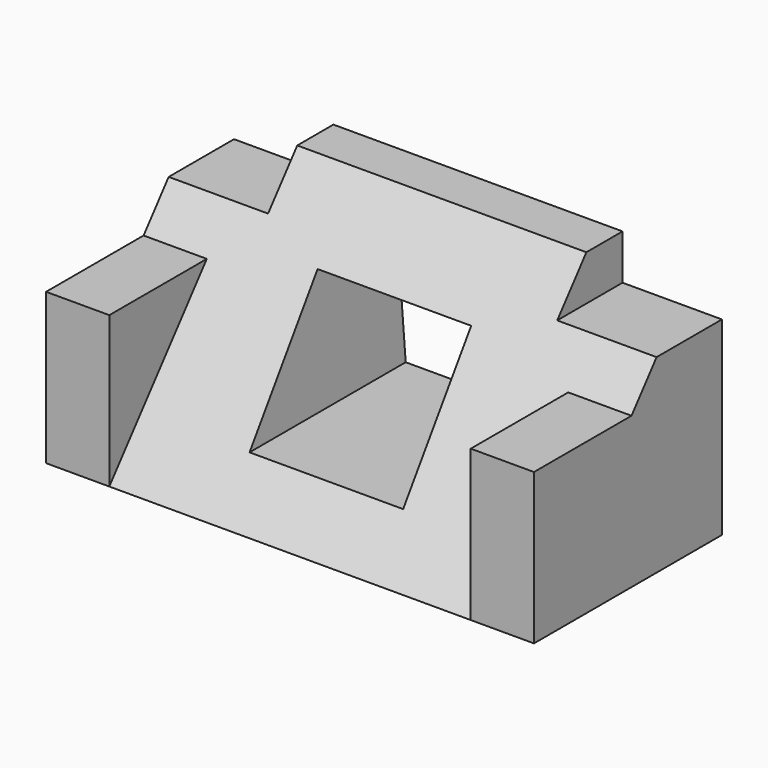
from build123d import *

# Parameters (mm, degrees)
F0_W     = 54
F0_H     = 26
F1_DEPTH = 26
F3_DEPTH = 72.1
F4_W     = 7
F4_H     = 16.7
F5_DEPTH = 26
F6_W     = 11
F6_H     = 5
F7_DEPTH = 25


with BuildPart() as f1:
    # F0 (on Front) → F1 (new body)
    with BuildSketch(Plane.XZ):
        Rectangle(F0_W, F0_H)
    extrude(amount=F1_DEPTH)

    # F2 (on face) → F3 (cut)
    with BuildSketch(Plane.YZ.offset(27)):
        Polygon((-26, -13), (-5, 13), (-26, 13), align=None)
    extrude(amount=-F3_DEPTH, mode=Mode.SUBTRACT)

    # F4 (on face) → F5 (join)
    with BuildSketch(Plane(origin=(0, 0, 0), x_dir=(-1, 0, 0), z_dir=(0, 1, 0))):
        with Locations((-23.5, -4.65)):
            Rectangle(F4_W, F4_H)
        with Locations((23.5, -4.65)):
            Rectangle(F4_W, F4_H)
    extrude(amount=-F5_DEPTH)

    # F6 (on face) → F7 (cut)
    with BuildSketch(Plane(origin=(0, 0, 0), x_dir=(-1, 0, 0), z_dir=(0, 1, 0))):
        with Locations((-21.5, 10.5)):
            Rectangle(F6_W, F6_H)
        with Locations((21.5, 10.5)):
            Rectangle(F6_W, F6_H)
    extrude(amount=-F7_DEPTH, mode=Mode.SUBTRACT)

    # F8 (on face) → F10 section 0
    with BuildSketch(Plane(origin=(0, -9.3804834378, 7.5765443151), x_dir=(1, 0, 0), z_dir=(0, -0.7779411802, 0.6283371071))):
        Polygon((-8, -19.4500001269), (9, -19.4500001269), (8, -2.4794373784), (-9, -2.4794373784), align=None)
    # F9 (on face) → F10 section 1
    with BuildSketch(Plane(origin=(0, 0, 0), x_dir=(-1, 0, 0), z_dir=(0, 1, 0))):
        Polygon((9, 5.6476878747), (-8, 5.6476878747), (-9, -7.5544117386), (8, -7.5544117386), align=None)
    loft(mode=Mode.SUBTRACT)


solid = f1.part
